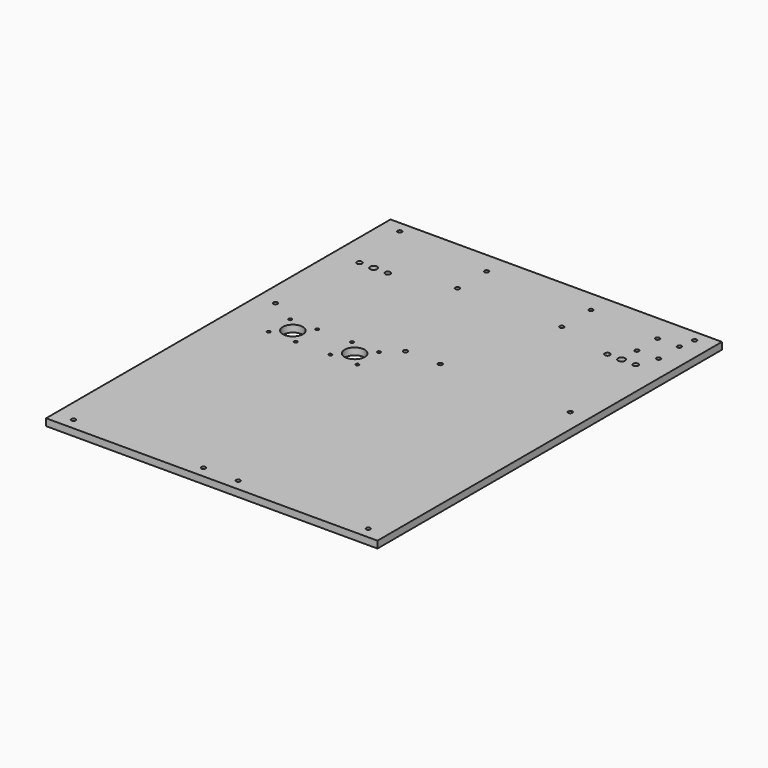
from build123d import *

# Parameters (mm, degrees)
SKETCH_W   = 381
SKETCH_H   = 495
SKETCH_R   = 3
SKETCH_R_2 = 4.05
SKETCH_R_3 = 2.4
SKETCH_R_4 = 11.5
SKETCH_R_5 = 1.8
PAD_DEPTH  = 8


with BuildPart() as part:
    # Sketch → Pad (new body)
    with BuildSketch(Plane.XY):
        with Locations((-190.5, 247.5)):
            Rectangle(SKETCH_W, SKETCH_H)
        with Locations((-350.25, 412)):
            Circle(SKETCH_R, mode=Mode.SUBTRACT)
        with Locations((-317.75, 412)):
            Circle(SKETCH_R, mode=Mode.SUBTRACT)
        with Locations((-334, 412)):
            Circle(SKETCH_R_2, mode=Mode.SUBTRACT)
        with Locations((-65.25, 412)):
            Circle(SKETCH_R, mode=Mode.SUBTRACT)
        with Locations((-32.75, 412)):
            Circle(SKETCH_R, mode=Mode.SUBTRACT)
        with Locations((-49, 412)):
            Circle(SKETCH_R_2, mode=Mode.SUBTRACT)
        with Locations((-21, 482)):
            Circle(SKETCH_R_3, mode=Mode.SUBTRACT)
        with Locations((-360, 482)):
            Circle(SKETCH_R_3, mode=Mode.SUBTRACT)
        with Locations((-21, 13)):
            Circle(SKETCH_R_3, mode=Mode.SUBTRACT)
        with Locations((-360, 13)):
            Circle(SKETCH_R_3, mode=Mode.SUBTRACT)
        with Locations((-250.5, 470)):
            Circle(SKETCH_R_3, mode=Mode.SUBTRACT)
        with Locations((-250.5, 428)):
            Circle(SKETCH_R_3, mode=Mode.SUBTRACT)
        with Locations((-210.5, 303.4)):
            Circle(SKETCH_R_3, mode=Mode.SUBTRACT)
        with Locations((-170.5, 303.4)):
            Circle(SKETCH_R_3, mode=Mode.SUBTRACT)
        with Locations((-360, 303.4)):
            Circle(SKETCH_R_3, mode=Mode.SUBTRACT)
        with Locations((-21, 303.4)):
            Circle(SKETCH_R_3, mode=Mode.SUBTRACT)
        with Locations((-49, 463.9)):
            Circle(SKETCH_R_3, mode=Mode.SUBTRACT)
        with Locations((-24, 463.9)):
            Circle(SKETCH_R_3, mode=Mode.SUBTRACT)
        with Locations((-24, 434.1)):
            Circle(SKETCH_R_3, mode=Mode.SUBTRACT)
        with Locations((-49, 434.1)):
            Circle(SKETCH_R_3, mode=Mode.SUBTRACT)
        with Locations((-210.5, 13)):
            Circle(SKETCH_R_3, mode=Mode.SUBTRACT)
        with Locations((-170.5, 13)):
            Circle(SKETCH_R_3, mode=Mode.SUBTRACT)
        with Locations((-314.5, 271.575934)):
            Circle(SKETCH_R_4, mode=Mode.SUBTRACT)
        with Locations((-330, 287.075934)):
            Circle(SKETCH_R_5, mode=Mode.SUBTRACT)
        with Locations((-299, 287.075934)):
            Circle(SKETCH_R_5, mode=Mode.SUBTRACT)
        with Locations((-299, 256.075934)):
            Circle(SKETCH_R_5, mode=Mode.SUBTRACT)
        with Locations((-330, 256.075934)):
            Circle(SKETCH_R_5, mode=Mode.SUBTRACT)
        with Locations((-243.5, 271.575934)):
            Circle(SKETCH_R_4, mode=Mode.SUBTRACT)
        with Locations((-259, 287.075934)):
            Circle(SKETCH_R_5, mode=Mode.SUBTRACT)
        with Locations((-228, 287.075934)):
            Circle(SKETCH_R_5, mode=Mode.SUBTRACT)
        with Locations((-228, 256.075934)):
            Circle(SKETCH_R_5, mode=Mode.SUBTRACT)
        with Locations((-259, 256.075934)):
            Circle(SKETCH_R_5, mode=Mode.SUBTRACT)
        with Locations((-130.5, 470)):
            Circle(SKETCH_R_3, mode=Mode.SUBTRACT)
        with Locations((-130.5, 428)):
            Circle(SKETCH_R_3, mode=Mode.SUBTRACT)
    extrude(amount=PAD_DEPTH)


solid = part.part
